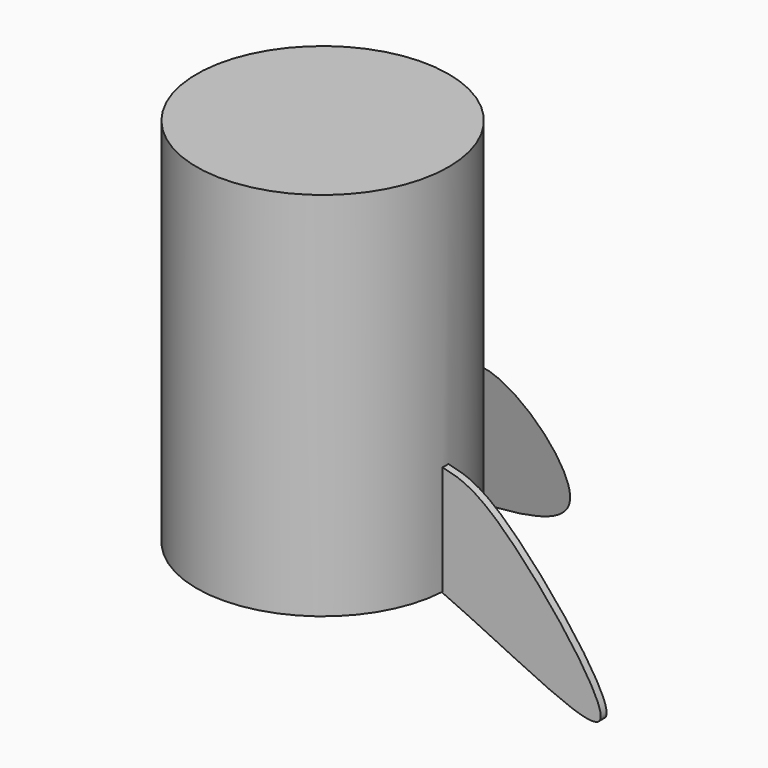
from build123d import *

# Parameters (mm, degrees)
F0_R     = 21.5573937043
F1_DEPTH = 63.5
F3_DEPTH = 1.778
F5_DEPTH = 1.27


with BuildPart() as f1:
    # F0 (on Top) → F1 (new body)
    with BuildSketch(Plane.XY):
        Circle(F0_R)
    extrude(amount=F1_DEPTH)

    # F2 (on Right) → F3 (join)
    with BuildSketch(Plane.YZ):
        with BuildLine():
            add(Edge.make_bspline(
                [(21.4230585843, 18.8257303089), (25.4152571812, 17.7337542467), (35.0627733159, 15.0948933727), (62.3459313723, -26.3349238901), (35.309978925, -8.8714455783), (21.5757172555, 0)],
                knots=[0, 0, 0, 0, 0.257781652, 0.6229531389, 1, 1, 1, 1], degree=3))
            Line((21.4230585843, 18.8257303089), (21.5757172555, 0))
        make_face()
    extrude(amount=F3_DEPTH)

    # F4 (on Front) → F5 (join)
    with BuildSketch(Plane.XZ):
        with BuildLine():
            Line((21.2236842012, 18.8214), (21.2236842012, 0))
            add(Edge.make_bspline(
                [(21.2236842012, 18.8214), (23.8559514528, 18.2657870203), (30.4596483204, 16.8021538854), (61.2280877119, -21.6449576492), (34.4408537462, -5.8542687668), (21.2236842012, 0)],
                knots=[0, 0, 0, 0, 0.2264847707, 0.6174984663, 1, 1, 1, 1], degree=3))
        make_face()
    extrude(amount=F5_DEPTH)


solid = f1.part
